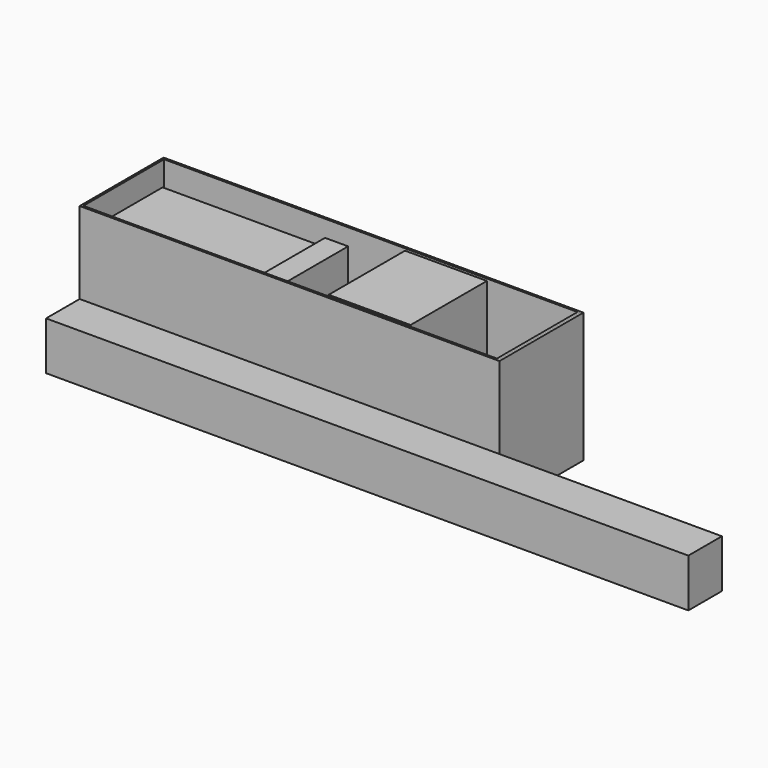
from build123d import *

# Parameters (mm, degrees)
F0_W      = 1000
F0_H      = 250
F1_DEPTH  = 310
F2_T      = -5
F3_W      = 410
F3_H      = 230
F4_DEPTH  = 170
F5_W      = 365
F5_H      = 230
F6_DEPTH  = 80
F7_W      = 55
F7_H      = 200
F8_DEPTH  = 290
F9_W      = 195
F9_H      = 230
F10_DEPTH = 300
F11_W     = 1530
F11_H     = 100
F12_DEPTH = 115
F13_W     = 240
F13_H     = 305
F14_DEPTH = 5


with BuildPart() as f1:
    # F0 (on Top) → F1 (new body)
    with BuildSketch(Plane.XY):
        with Locations((500, 125)):
            Rectangle(F0_W, F0_H)
    extrude(amount=F1_DEPTH)

    # F2
    f2_openings = [f1.faces().sort_by_distance(p)[0] for p in [
        (500, 125, 310),
    ]]
    offset(amount=F2_T, openings=f2_openings)


with BuildPart() as f4:
    # F3 (on face) → F4 (new body)
    with BuildSketch(Plane.XY.offset(5)):
        with Locations((212.5, 122.5)):
            Rectangle(F3_W, F3_H)
    extrude(amount=F4_DEPTH)


with BuildPart() as f6:
    # F5 (on face) → F6 (new body)
    with BuildSketch(Plane.XY.offset(175)):
        with Locations((190, 122.5)):
            Rectangle(F5_W, F5_H)
    extrude(amount=F6_DEPTH)


with BuildPart() as f8:
    # F7 (on face) → F8 (new body)
    with BuildSketch(Plane.XY.offset(5)):
        with Locations((446, 107.5)):
            Rectangle(F7_W, F7_H)
    extrude(amount=F8_DEPTH)


with BuildPart() as f10:
    # F9 (on face) → F10 (new body)
    with BuildSketch(Plane.XY.offset(5)):
        with Locations((676.612673, 132.701575)):
            Rectangle(F9_W, F9_H)
    extrude(amount=F10_DEPTH)


with BuildPart() as f12:
    # F11 (on Top) → F12 (new body)
    with BuildSketch(Plane.XY):
        with Locations((765, -50)):
            Rectangle(F11_W, F11_H)
    extrude(amount=F12_DEPTH)


with BuildPart() as f14:
    # F13 (on face) → F14 (new body)
    with BuildSketch(Plane(origin=(995, 0, 0), x_dir=(0, -1, 0), z_dir=(-1, 0, 0))):
        with Locations((-125, 157.5)):
            Rectangle(F13_W, F13_H)
    extrude(amount=F14_DEPTH)


solid = Compound([f1.part, f4.part, f6.part, f8.part, f10.part, f12.part, f14.part])
